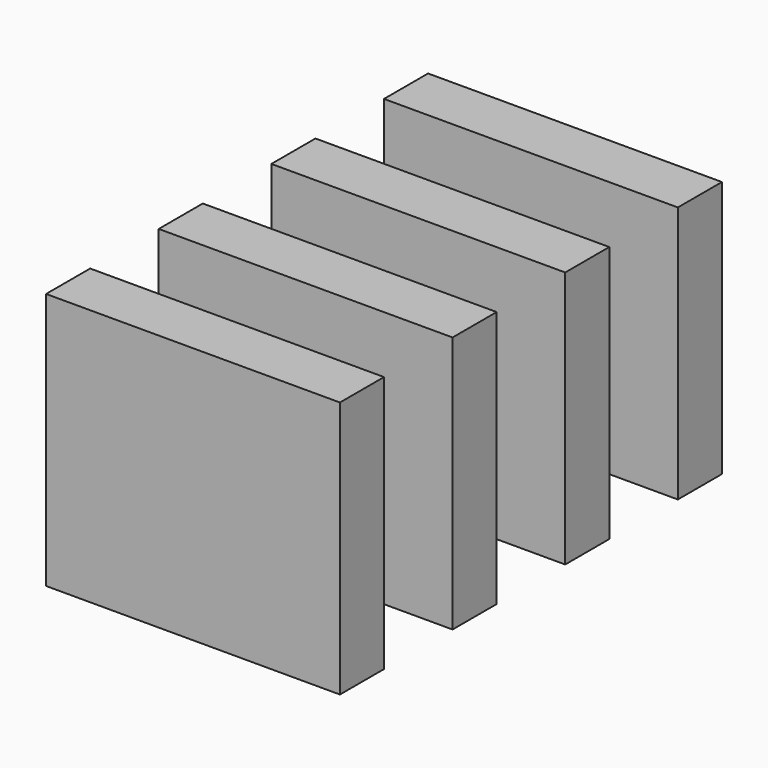
from build123d import *

# Parameters (mm, degrees)
BOX065_W     = 24
BOX065_H     = 4.5
BOX065_DEPTH = 21
BOX066_W     = 24
BOX066_H     = 4.5
BOX066_DEPTH = 21
BOX067_W     = 24
BOX067_H     = 4.5
BOX067_DEPTH = 21
BOX064_W     = 24
BOX064_H     = 4.5
BOX064_DEPTH = 21


with BuildPart() as cube038:
    # Box065 → Box065 (new body)
    with BuildSketch(Plane(origin=(13.5, 27.5, 0), x_dir=(1, 0, 0), z_dir=(0, 0, 1))):
        with Locations((12, 2.25)):
            Rectangle(BOX065_W, BOX065_H)
    extrude(amount=BOX065_DEPTH)


with BuildPart() as cube039:
    # Box066 → Box066 (new body)
    with BuildSketch(Plane(origin=(13.5, 39, 0), x_dir=(1, 0, 0), z_dir=(0, 0, 1))):
        with Locations((12, 2.25)):
            Rectangle(BOX066_W, BOX066_H)
    extrude(amount=BOX066_DEPTH)


with BuildPart() as cube040:
    # Box067 → Box067 (new body)
    with BuildSketch(Plane(origin=(13.5, 50.5, 0), x_dir=(1, 0, 0), z_dir=(0, 0, 1))):
        with Locations((12, 2.25)):
            Rectangle(BOX067_W, BOX067_H)
    extrude(amount=BOX067_DEPTH)


with BuildPart() as relay:
    # Box064 → Box064 (new body)
    with BuildSketch(Plane(origin=(13.5, 16, 0), x_dir=(1, 0, 0), z_dir=(0, 0, 1))):
        with Locations((12, 2.25)):
            Rectangle(BOX064_W, BOX064_H)
    extrude(amount=BOX064_DEPTH)

    # Fusion043: union Cube038, Cube039, Cube040
    add(cube038.part)
    add(cube039.part)
    add(cube040.part)


solid = relay.part
